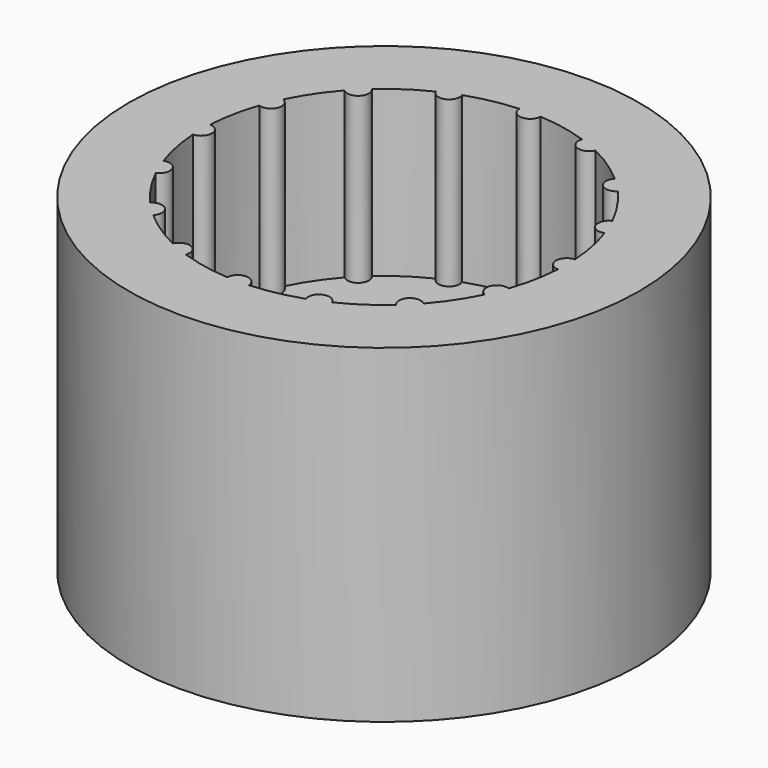
from build123d import *

# Parameters (mm, degrees)
SKETCH_R           = 31
PAD_DEPTH          = 40
SKETCH001_R        = 22.2
POCKET_DEPTH       = 20
SKETCH002_R        = 1.3
PAD001_DEPTH       = 25
POLARPATTERN_COUNT = 16
SKETCH003_W        = 9.8
SKETCH003_H        = 9.8
POCKET001_DEPTH    = 40.001


with BuildPart() as part:
    # Sketch → Pad (new body)
    with BuildSketch(Plane.XY):
        Circle(SKETCH_R)
    extrude(amount=PAD_DEPTH)

    # Sketch001 → Pocket (cut)
    with BuildSketch(Plane.XY.offset(40)):
        Circle(SKETCH001_R)
    extrude(amount=-POCKET_DEPTH, mode=Mode.SUBTRACT)

    # Sketch002 → Pad001 (new body)
    with BuildSketch(Plane.XY.offset(40)):
        with Locations((0, 22.2)):
            Circle(SKETCH002_R)
    pad001 = extrude(amount=-PAD001_DEPTH)

    # PolarPattern: Pad001 ×16 about axis
    polarpattern_axis = Axis((0, 0, 40), (0, 0, 1))
    for i in range(1, POLARPATTERN_COUNT):
        add(pad001.rotate(polarpattern_axis, i * 360 / POLARPATTERN_COUNT))

    # Sketch003 → Pocket001 (cut, through all)
    with BuildSketch(Plane(origin=(0, 0, 0), x_dir=(1, 0, 0), z_dir=(0, 0, -1))):
        Rectangle(SKETCH003_W, SKETCH003_H)
    extrude(amount=-POCKET001_DEPTH, mode=Mode.SUBTRACT)


solid = part.part
